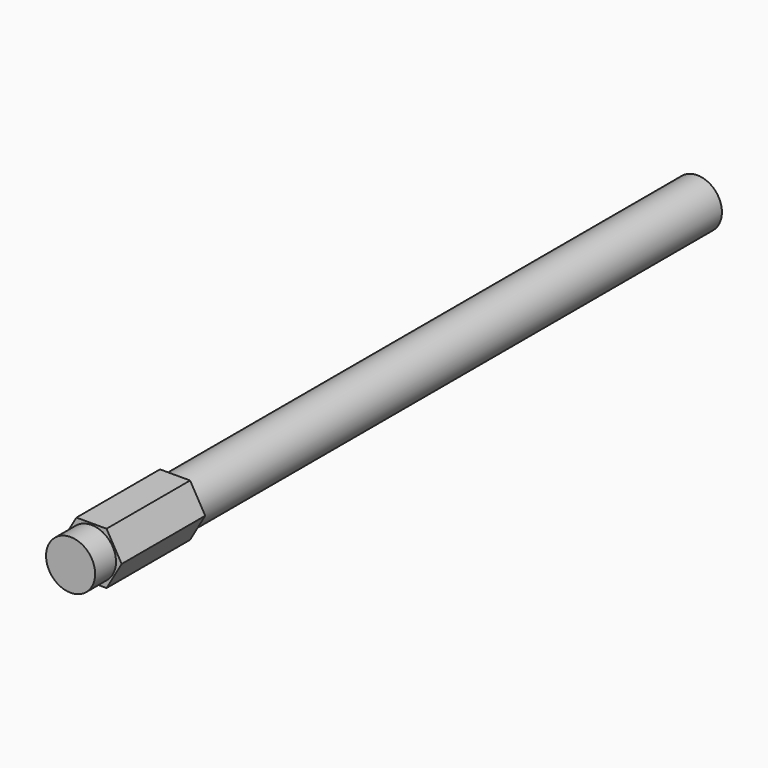
from build123d import *

# Parameters (mm, degrees)
F0_R     = 4.7
F1_DEPTH = 150
F2_R     = 1.5
F3_DEPTH = 9.8
F6_DEPTH = 20


with BuildPart() as f1:
    # F0 (on Front) → F1 (new body)
    with BuildSketch(Plane.XZ):
        Circle(F0_R)
    extrude(amount=F1_DEPTH)

    # F2 (on face) → F3 (cut)
    with BuildSketch(Plane(origin=(0, 0, 0), x_dir=(-1, 0, 0), z_dir=(0, 1, 0))):
        Circle(F2_R)
    extrude(amount=-F3_DEPTH, mode=Mode.SUBTRACT)

    # F5 (on offset) → F6 (join)
    with BuildSketch(Plane.XZ.offset(145)):
        Polygon((2.887, 5.000431), (-2.887, 5.000431), (-5.774, 0), (-2.887, -5.000431), (2.887, -5.000431), (5.774, 0), align=None)
    extrude(amount=-F6_DEPTH)


solid = f1.part
